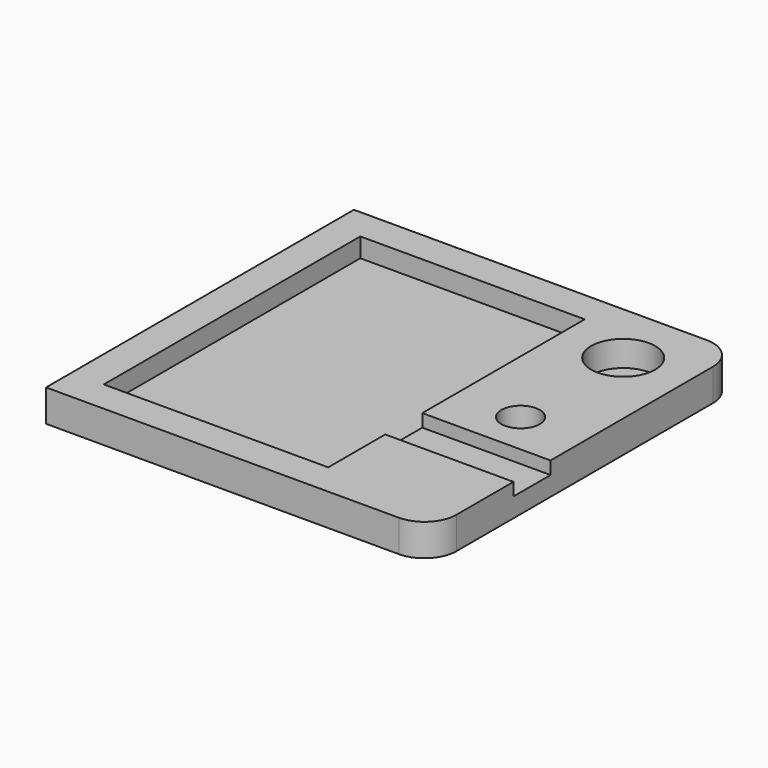
from build123d import *

# Parameters (mm, degrees)
F0_W     = 60
F0_H     = 60
F1_DEPTH = 5
F2_R     = 5
F4_DEPTH = 3
F3_R     = 5
F5_DEPTH = 4
F3_R_2   = 3
F6_DEPTH = 5
F3_W     = 20
F3_H     = 7.223957
F7_DEPTH = 2


with BuildPart() as f1:
    # F0 (on Top) → F1 (new body)
    with BuildSketch(Plane.XY):
        with Locations((30, -30)):
            Rectangle(F0_W, F0_H)
    extrude(amount=F1_DEPTH)

    # F2
    f2_edges = [f1.edges().sort_by_distance(p)[0] for p in [
        (60, 0, 2.5),
        (60, -60, 2.5),
    ]]
    fillet(f2_edges, radius=F2_R)

    # F3 (on face) → F4 (cut)
    with BuildSketch(Plane.XY.offset(5)):
        Polygon((40, -5), (5, -5), (5, -55), (40, -55), (40, -43.888409), (40, -36.664452), align=None)
    extrude(amount=-F4_DEPTH, mode=Mode.SUBTRACT)

    # F3 (on face) → F5 (cut)
    with BuildSketch(Plane.XY.offset(5)):
        with Locations((50, -10)):
            Circle(F3_R)
    extrude(amount=-F5_DEPTH, mode=Mode.SUBTRACT)

    # F3 (on face) → F6 (cut)
    with BuildSketch(Plane.XY.offset(5)):
        with Locations((50, -30)):
            Circle(F3_R_2)
    extrude(amount=-F6_DEPTH, mode=Mode.SUBTRACT)

    # F3 (on face) → F7 (cut)
    with BuildSketch(Plane.XY.offset(5)):
        with Locations((50, -40.27643)):
            Rectangle(F3_W, F3_H)
    extrude(amount=-F7_DEPTH, mode=Mode.SUBTRACT)


solid = f1.part
